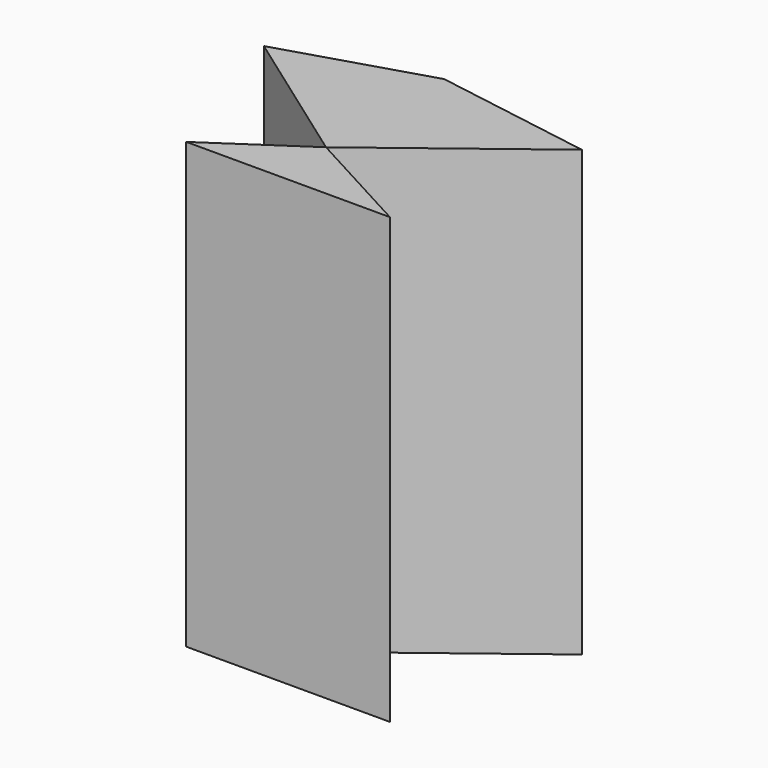
from build123d import *

# Parameters (mm, degrees)
F1_DEPTH = 90


with BuildPart() as f1:
    # F0 (on Top) → F1 (new body)
    with BuildSketch(Plane.XY):
        Polygon((32.11844, 36.98042), (0, 42.284384), (0, 12.375921), align=None)
        Polygon((22.836506, 0), (0, 12.375921), (0, 0), align=None)
        Polygon((0, 0), (0, 12.375921), (-18.416539, 0), align=None)
        Polygon((0, 12.375921), (0, 42.284384), (-29.31913, 33.297114), align=None)
    extrude(amount=F1_DEPTH)


solid = f1.part
